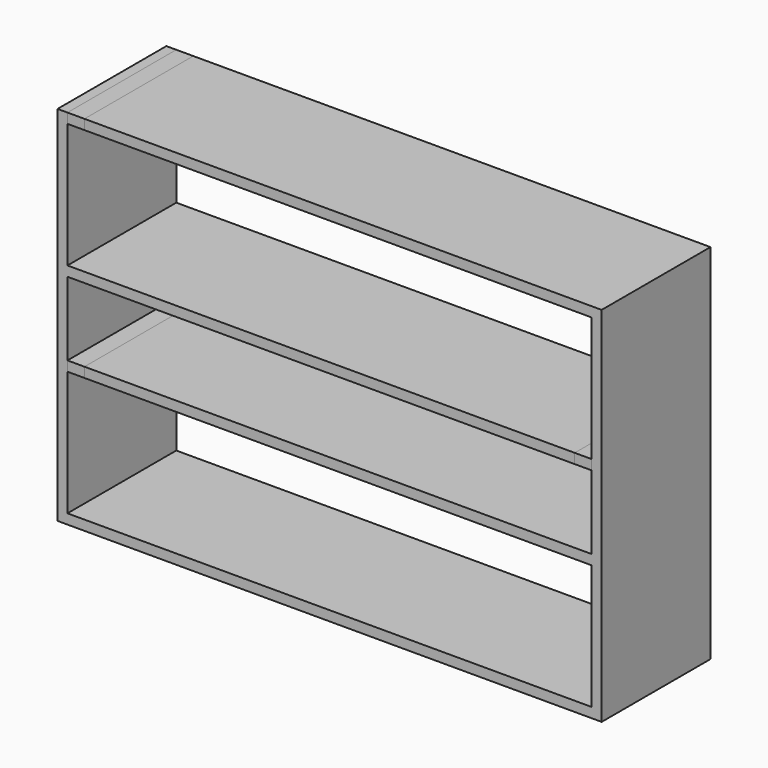
from build123d import *

# Parameters (mm, degrees)
F0_W     = 1136.65
F0_H     = 22.225
F1_DEPTH = 304.8
F0_W_2   = 38.1
F2_DEPTH = 304.8


with BuildPart() as f1:
    # F0 (on Front) → F1 (new body)
    with BuildSketch(Plane.XZ):
        with Locations((-590.55, 779.4625)):
            Rectangle(F0_W, F0_H)
        Polygon((-1219.2, 0), (-1196.975, 0), (-1196.975, 279.4), (-1196.975, 301.625), (-1196.975, 466.725), (-1196.975, 488.95), (-1196.975, 768.35), (-1196.975, 790.575), (-1219.2, 790.575), align=None)
        with Locations((-628.65, 477.8375)):
            Rectangle(F0_W, F0_H)
        Polygon((-22.225, 0), (0, 0), (0, 790.575), (-22.225, 790.575), (-22.225, 768.35), (-22.225, 488.95), (-22.225, 466.725), (-22.225, 301.625), (-22.225, 279.4), align=None)
        with Locations((-590.55, 290.5125)):
            Rectangle(F0_W, F0_H)
        Polygon((0, -22.225), (0, 0), (-22.225, 0), (-1196.975, 0), (-1219.2, 0), (-1219.2, -22.225), align=None)
    extrude(amount=-F1_DEPTH)


with BuildPart() as f2:
    # F0 (on Front) → F2 (new body)
    with BuildSketch(Plane.XZ):
        with Locations((-1177.925, 779.4625)):
            Rectangle(F0_W_2, F0_H)
        with Locations((-41.275, 477.8375)):
            Rectangle(F0_W_2, F0_H)
        with Locations((-1177.925, 290.5125)):
            Rectangle(F0_W_2, F0_H)
    extrude(amount=-F2_DEPTH)


solid = Compound([f1.part, f2.part])
